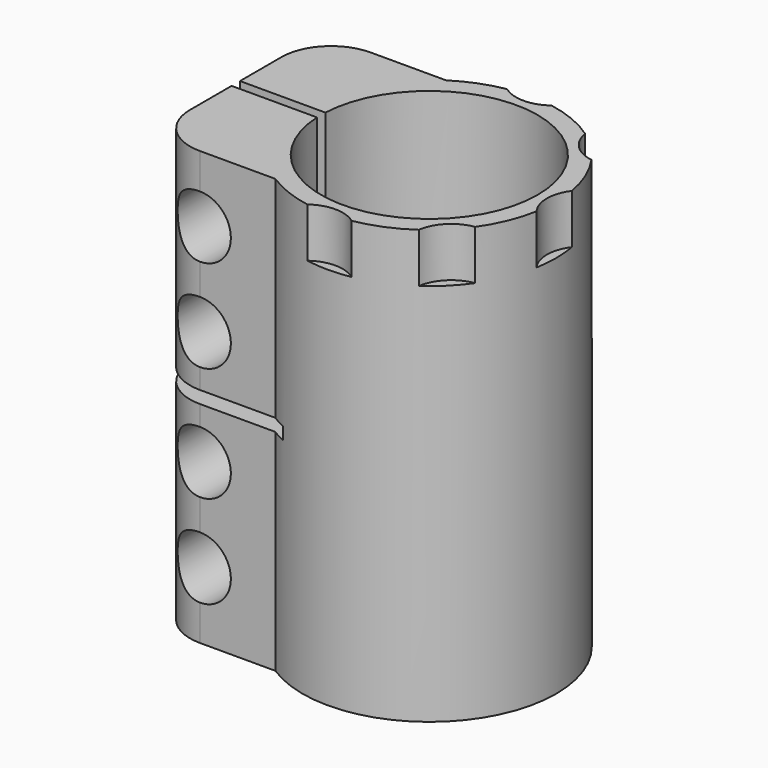
from build123d import *

# Parameters (mm, degrees)
F1_DEPTH       = 35
F3_D           = 5
F3_START       = 1.7550021
F3_CBORE_D     = 10
F3_CBORE_DEPTH = 8
F4_W           = 22.4
F4_H           = 2
F5_DEPTH       = 350
F7_DEPTH       = 8


with BuildPart() as f1:
    # F0 (on Top) → F1 (new body, symmetric)
    with BuildSketch(Plane.XY):
        with BuildLine():
            ThreePointArc((-17.4795348609, 0.84608572), (17.5, 0), (-17.4795348609, -0.84608572))
            Line((-17.4795348609, -0.84608572), (-20.4825325327, -0.84608572))
            Line((-20.4825325327, -0.84608572), (-31.2825325327, -0.84608572))
            Line((-31.2825325327, -0.84608572), (-31.2825325327, -9.24608572))
            ThreePointArc((-31.2825325327, -9.24608572), (-28.9393867822, -14.9029399695), (-23.2825325327, -17.24608572))
            Line((-23.2825325327, -17.24608572), (-11.0825325327, -17.24608572))
            ThreePointArc((-11.0825325327, -17.24608572), (20.5, 0), (-11.0825325327, 17.24608572))
            Line((-11.0825325327, 17.24608572), (-23.2825325327, 17.24608572))
            ThreePointArc((-23.2825325327, 17.24608572), (-28.9393867822, 14.9029399695), (-31.2825325327, 9.24608572))
            Line((-31.2825325327, 9.24608572), (-31.2825325327, 0.84608572))
            Line((-31.2825325327, 0.84608572), (-20.4825325327, 0.84608572))
            Line((-20.4825325327, 0.84608572), (-17.4795348609, 0.84608572))
        make_face()
    extrude(amount=F1_DEPTH, both=True)

    # F3 (through all)
    # its depths count from where the whole tool has entered the part; down to there all is cleared
    with Locations(Plane.XZ.offset(17.24608572).offset(-F3_START)):
        with Locations((-23.2825325327, -24.25), (-23.2825325327, -9.25), (-23.2825325327, 9.25), (-23.2825325327, 24.25)):
            CounterBoreHole(F3_D / 2, F3_CBORE_D / 2, F3_CBORE_DEPTH)

    # F4 (on face) → F5 (cut, symmetric)
    with BuildSketch(Plane.XZ.offset(17.24608572)):
        with Locations((-20.0825325327, 0)):
            Rectangle(F4_W, F4_H)
    extrude(amount=F5_DEPTH, both=True, mode=Mode.SUBTRACT)

    # F6 (on face) → F7 (cut)
    with BuildSketch(Plane.XY.offset(35)):
        with BuildLine():
            ThreePointArc((-3.5799127084, -20.185), (0, -20.5), (3.5799127084, -20.185))
            ThreePointArc((3.5799127084, -20.185), (0, -19), (-3.5799127084, -20.185))
        make_face()
        with BuildLine():
            ThreePointArc((16.8043309304, -11.7415698261), (13.4350288425, -13.4350288425), (11.7415698261, -16.8043309304))
            ThreePointArc((11.7415698261, -16.8043309304), (14.4956890143, -14.4956890143), (16.8043309304, -11.7415698261))
        make_face()
        with BuildLine():
            ThreePointArc((20.185, 3.5799127084), (19, 0), (20.185, -3.5799127084))
            ThreePointArc((20.185, -3.5799127084), (20.5, 0), (20.185, 3.5799127084))
        make_face()
        with BuildLine():
            ThreePointArc((11.7415698261, 16.8043309304), (13.4350288425, 13.4350288425), (16.8043309304, 11.7415698261))
            ThreePointArc((16.8043309304, 11.7415698261), (14.4956890143, 14.4956890143), (11.7415698261, 16.8043309304))
        make_face()
        with BuildLine():
            ThreePointArc((-3.5799127084, 20.185), (0, 19), (3.5799127084, 20.185))
            ThreePointArc((3.5799127084, 20.185), (0, 20.5), (-3.5799127084, 20.185))
        make_face()
    extrude(amount=-F7_DEPTH, mode=Mode.SUBTRACT)


solid = f1.part
